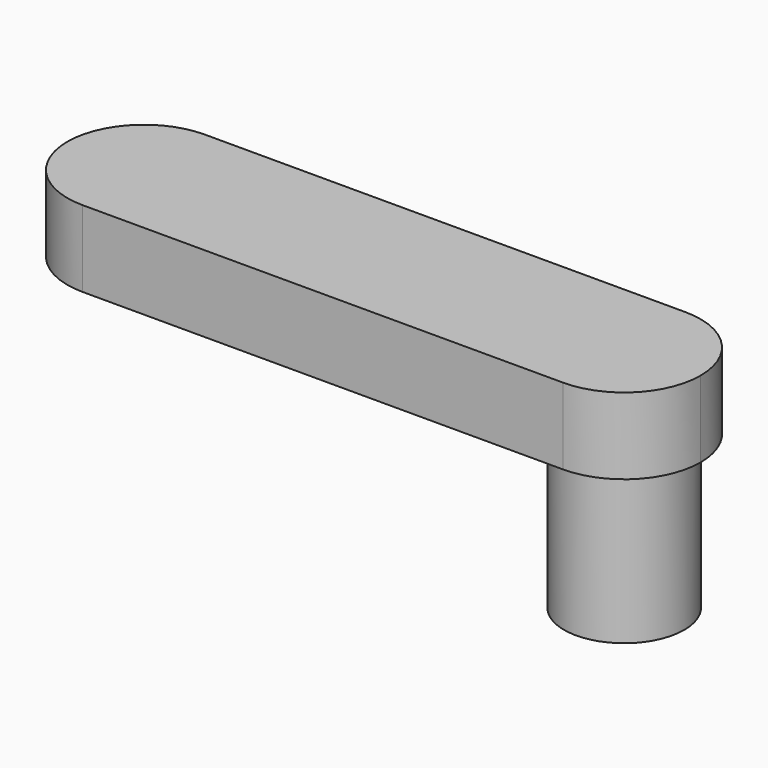
from build123d import *

# Parameters (mm, degrees)
F1_DEPTH = 3.5
F2_R     = 2.75
F3_DEPTH = 7


with BuildPart() as f1:
    # F0 (on Top) → F1 (new body)
    with BuildSketch(Plane.XY):
        with BuildLine():
            ThreePointArc((0, 3.5), (1.025126, 1.025126), (3.5, 0))
            Line((3.5, 0), (25.5, 0))
            ThreePointArc((25.5, 0), (27.974874, 1.025126), (29, 3.5))
            ThreePointArc((29, 3.5), (27.974874, 5.974874), (25.5, 7))
            Line((25.5, 7), (3.5, 7))
            ThreePointArc((3.5, 7), (1.025126, 5.974874), (0, 3.5))
        make_face()
    extrude(amount=F1_DEPTH)

    # F2 (on face) → F3 (join)
    with BuildSketch(Plane(origin=(0, 0, 0), x_dir=(1, 0, 0), z_dir=(0, 0, -1))):
        with Locations((25.5, -3.5)):
            Circle(F2_R)
    extrude(amount=F3_DEPTH)


solid = f1.part
